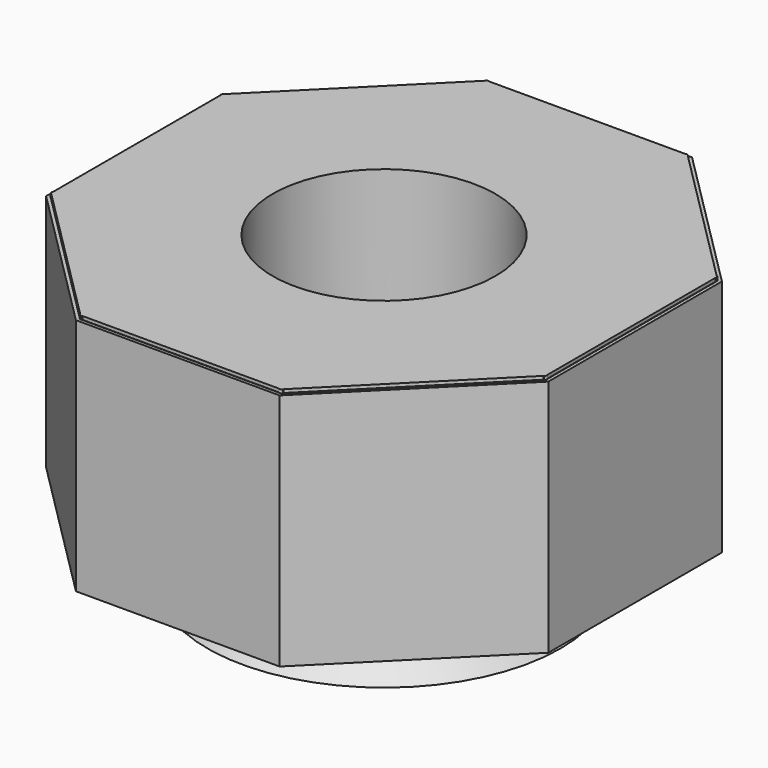
from build123d import *

# Parameters (mm, degrees)
F3_R      = 853.2
F4_DEPTH  = 25
F5_R      = 127
F6_DEPTH  = 25
F7_R      = 175
F8_DEPTH  = 25
F11_DEPTH = 1785
F12_R     = 845.7
F13_DEPTH = 25
F16_DEPTH = 1785


with BuildPart() as f1:
    # F0 (on Front) → F1 (revolve)
    with BuildSketch(Plane.XZ):
        Polygon((845.7, 4071), (833, 4071), (833, 2261), (1308, 1778), (1320.7, 1778), (845.7, 2261), align=None)
    revolve(axis=Axis((0, 0, 40.9754104912), (0, 0, 1)))



with BuildPart() as f4:
    # F3 (on offset) → F4 (new body)
    with BuildSketch(Plane(origin=(0, 0, 2261), x_dir=(1, 0, 0), z_dir=(0, 0, -1))):
        Polygon((-1850, -800), (-750, -1900), (750, -1900), (1850, -800), (1850, 800), (750, 1900), (-750, 1900), (-1850, 800), align=None)
        Circle(F3_R, mode=Mode.SUBTRACT)
    extrude(amount=-F4_DEPTH)

    # F5 (on face) → F6 (cut, through all)
    with BuildSketch(Plane.XY.offset(2286)):
        with Locations((0, 1250)):
            Circle(F5_R)
        with Locations((-1250, 0)):
            Circle(F5_R)
        with Locations((0, -1250)):
            Circle(F5_R)
        with Locations((1250, 0)):
            Circle(F5_R)
    extrude(amount=-F6_DEPTH, mode=Mode.SUBTRACT)

    # F7 (on face) → F8 (cut, through all)
    with BuildSketch(Plane.XY.offset(2286)):
        with Locations((-903.0558815967, 935.1417404402)):
            Circle(F7_R)
        with Locations((903.0558815967, 935.1417404402)):
            Circle(F7_R)
        with Locations((-903.0558815967, -935.1417404402)):
            Circle(F7_R)
        with Locations((903.0558815967, -935.1417404402)):
            Circle(F7_R)
    extrude(amount=-F8_DEPTH, mode=Mode.SUBTRACT)

    # F10 (on face) → F11 (join, through all)
    with BuildSketch(Plane.XY.offset(2286)):
        Polygon((-778.0701837337, 350.081460784), (-1845.0386106164, 811.4732129495), (-1854.9613893836, 788.5267870505), (-787.9929625008, 327.135034885), align=None)
        Polygon((-301.6060889253, 798.1127784487), (-738.3732480972, 1904.5895816842), (-761.5782024883, 1895.2874264656), (-324.859643518, 788.9337437411), align=None)
        Polygon((761.6269402666, 1895.4104183158), (738.3730597334, 1904.5895816842), (301.6059005615, 798.1127784487), (324.8597810947, 788.9336150803), align=None)
        Polygon((1854.9613893836, 788.5267870505), (1845.0386106164, 811.4732129495), (778.0701837337, 350.081460784), (787.9929625008, 327.135034885), align=None)
        Polygon((-787.9929625008, -327.135034885), (-1854.9613893836, -788.5267870505), (-1845.0386106164, -811.4732129495), (-778.0701837337, -350.081460784), align=None)
        Polygon((-324.859643518, -788.9337437411), (-761.3312444642, -1894.6617994714), (-738.3732480972, -1904.5895816842), (-301.6060889253, -798.1127784487), align=None)
        Polygon((738.3730597334, -1904.5719468468), (761.3194856324, -1894.6491680797), (324.8538176881, -788.9361426209), (301.6119825201, -798.1105512398), align=None)
        Polygon((1845.4104183158, -811.6269402666), (1854.5895816842, -788.3730597334), (787.9904795888, -327.141015584), (778.0728407593, -350.0755553773), align=None)
    extrude(amount=F11_DEPTH)


with BuildPart() as f1_1:
    add(f1.part)

    add(f4.part)  # F13 merges F4
    # F12 (on face) → F13 (join)
    with BuildSketch(Plane.XY.offset(4071)):
        Polygon((-750, 1900), (-1850, 800), (-1850, -800), (-750, -1900), (750, -1900), (1850, -800), (1850, 800), (750, 1900), align=None)
        Circle(F12_R, mode=Mode.SUBTRACT)
    extrude(amount=-F13_DEPTH)

    # F14: union 

    # F15 (on face) → F16 (join, through all)
    with BuildSketch(Plane(origin=(0, 0, 2261), x_dir=(1, 0, 0), z_dir=(0, 0, -1))):
        Polygon((-761.5979797464, -1928), (761.5979797464, -1928), (1878, -811.5979797464), (1878, 811.5979797464), (761.5979797464, 1928), (-761.5979797464, 1928), (-1878, 811.5979797464), (-1878, -811.5979797464), align=None)
        Polygon((1853, -801.2426406871), (751.2426406871, -1903), (-751.2426406871, -1903), (-1853, -801.2426406871), (-1853, 801.2426406871), (-751.2426406871, 1903), (751.2426406871, 1903), (1853, 801.2426406871), align=None, mode=Mode.SUBTRACT)
    extrude(amount=-F16_DEPTH)


solid = f1_1.part
